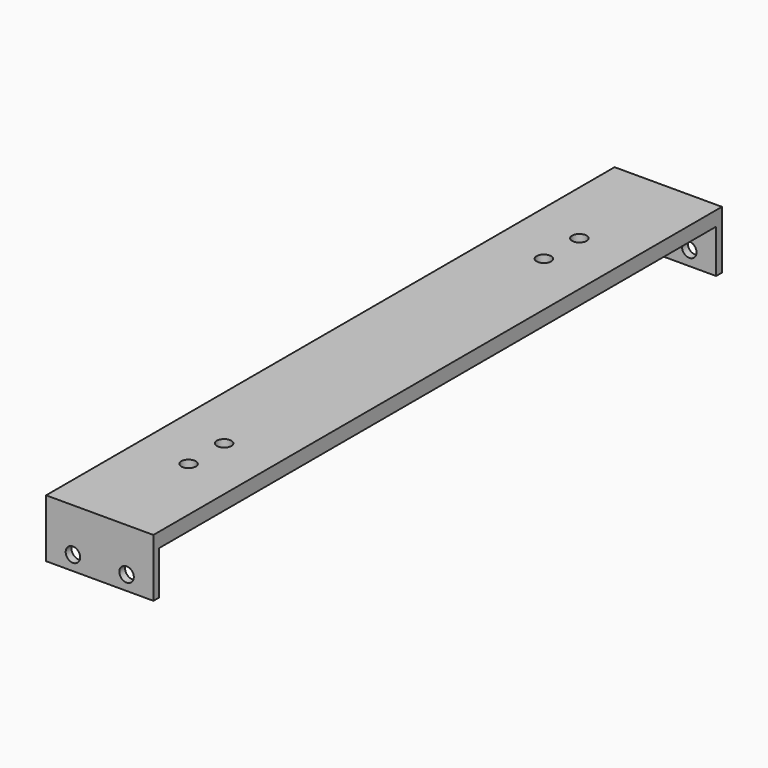
from build123d import *

# Parameters (mm, degrees)
F0_W     = 23.495
F0_H     = 12.7
F1_DEPTH = 1.5875
F2_R     = 1.5875
F3_DEPTH = 25.4
F4_W     = 23.495
F4_H     = 3.175
F5_DEPTH = 76.2
F7_R     = 1.5875
F8_DEPTH = 25.4


with BuildPart() as f1:
    # F0 (on Front) → F1 (new body)
    with BuildSketch(Plane.XZ):
        Rectangle(F0_W, F0_H)
    extrude(amount=F1_DEPTH)

    # F2 (on face) → F3 (cut)
    with BuildSketch(Plane.XZ.offset(1.5875)):
        with Locations((-5.87375, -3.175)):
            Circle(F2_R)
        with Locations((5.87375, -3.175)):
            Circle(F2_R)
    extrude(amount=-F3_DEPTH, mode=Mode.SUBTRACT)

    # F4 (on face) → F5 (join)
    with BuildSketch(Plane.XZ.offset(1.5875)):
        with Locations((0, 4.7625)):
            Rectangle(F4_W, F4_H)
    extrude(amount=F5_DEPTH)

    # F6: F1 across face


with BuildPart() as f1_1:
    add(f1.part)
    add(f1.part.mirror(Plane(origin=(0, -77.7875, 4.7625), x_dir=(1, 0, 0), z_dir=(0, -1, 0))))

    # F7 (on face) → F8 (cut)
    with BuildSketch(Plane.XY.offset(6.35)):
        with Locations((0, -34.032031)):
            Circle(F7_R)
        with Locations((0, -24.308594)):
            Circle(F7_R)
        with Locations((0, -131.266406)):
            Circle(F7_R)
        with Locations((0, -121.542969)):
            Circle(F7_R)
    extrude(amount=-F8_DEPTH, mode=Mode.SUBTRACT)


solid = f1_1.part
